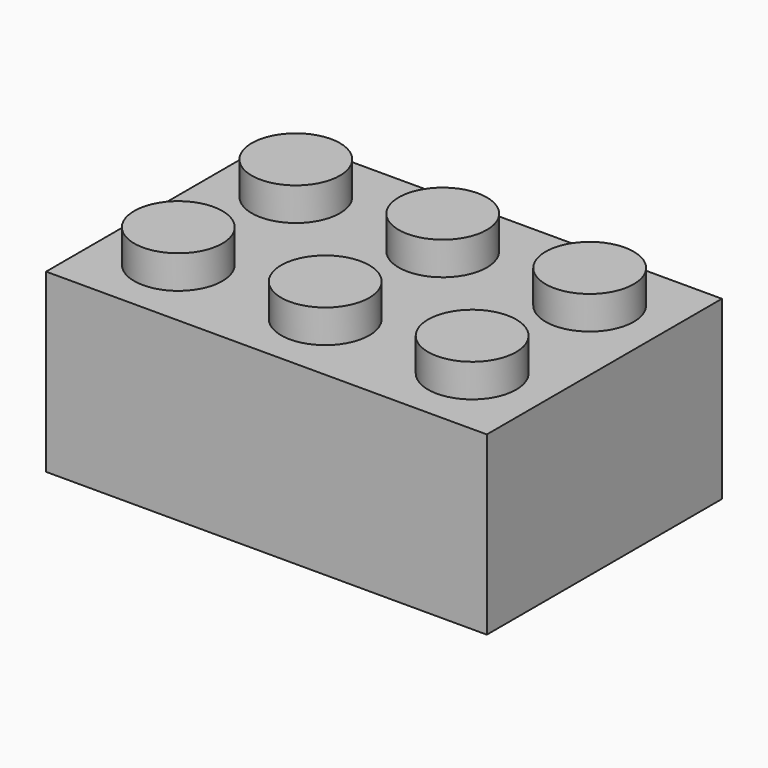
from build123d import *

# Parameters (mm, degrees)
F0_W     = 24.003
F0_H     = 16.002
F1_DEPTH = 9.6012
F2_R     = 2.4003
F3_DEPTH = 1.8034


with BuildPart() as f1:
    # F0 (on Top) → F1 (new body)
    with BuildSketch(Plane.XY):
        with Locations((-12.0015, 8.001)):
            Rectangle(F0_W, F0_H)
    extrude(amount=F1_DEPTH)

    # F2 (on face) → F3 (join)
    with BuildSketch(Plane.XY.offset(9.6012)):
        with Locations((-20.0025, 12.0015)):
            Circle(F2_R)
        with Locations((-12.0015, 12.0015)):
            Circle(F2_R)
        with Locations((-4.0005, 12.0015)):
            Circle(F2_R)
        with Locations((-20.0025, 4.0005)):
            Circle(F2_R)
        with Locations((-12.0015, 4.0005)):
            Circle(F2_R)
        with Locations((-4.0005, 4.0005)):
            Circle(F2_R)
    extrude(amount=F3_DEPTH)


solid = f1.part
